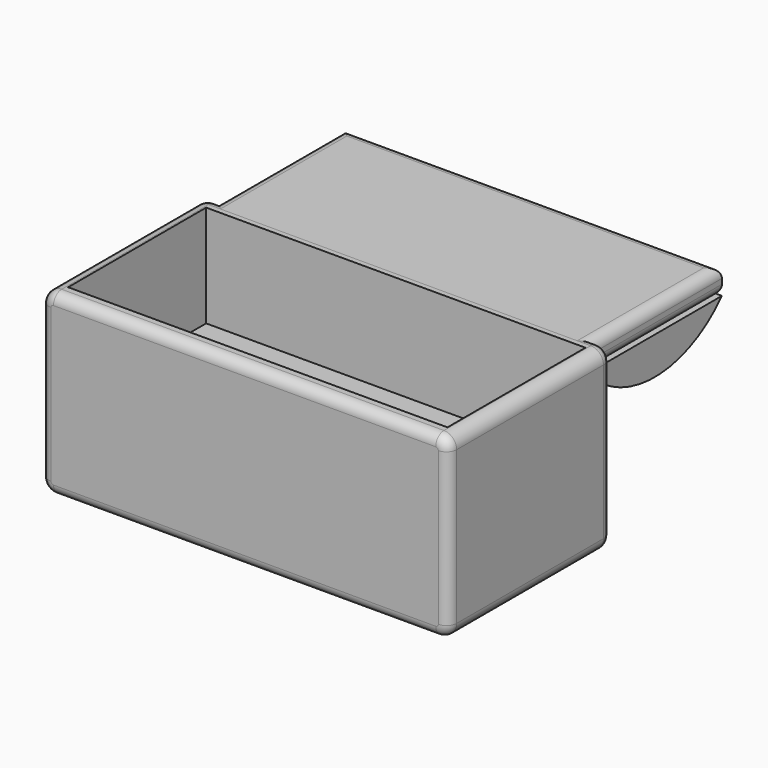
from build123d import *

# Parameters (mm, degrees)
F1_DEPTH = 101.6
F2_W     = 189.0404075384
F2_H     = 85.95798444
F3_DEPTH = 50.8
F4_R     = 5.08
F5_W     = 187.96
F5_H     = 83.7971559429
F6_DEPTH = 12.7
F8_DEPTH = 187.96
F9_R     = 5.08


with BuildPart() as f1:
    # F0 (on Front) → F1 (new body)
    with BuildSketch(Plane.XZ):
        with BuildLine():
            ThreePointArc((-84.6194562674, -32.7631937014), (-82.7595843279, -37.2533217619), (-78.2694562674, -39.1131937014))
            Line((-78.2694562674, -39.1131937014), (112.2305437326, -39.1131937014))
            ThreePointArc((112.2305437326, -39.1131937014), (116.7206717932, -37.2533217619), (118.5805437326, -32.7631937014))
            Line((118.5805437326, -32.7631937014), (118.5805437326, 43.4368062986))
            ThreePointArc((118.5805437326, 43.4368062986), (116.7206717932, 47.9269343592), (112.2305437326, 49.7868062986))
            Line((112.2305437326, 49.7868062986), (-78.2694562674, 49.7868062986))
            ThreePointArc((-78.2694562674, 49.7868062986), (-82.7595843279, 47.9269343592), (-84.6194562674, 43.4368062986))
            Line((-84.6194562674, 43.4368062986), (-84.6194562674, -32.7631937014))
        make_face()
    extrude(amount=-F1_DEPTH)

    # F2 (on face) → F3 (cut)
    with BuildSketch(Plane.XY.offset(49.7868062986)):
        with Locations((17.1484276652, 50.9781637229)):
            Rectangle(F2_W, F2_H)
    extrude(amount=-F3_DEPTH, mode=Mode.SUBTRACT)

    # F4
    f4_edges = [f1.edges().sort_by_distance(p)[0] for p in [
        (16.980544, 101.6, 49.786806),
        (16.980544, 0, 49.786806),
    ]]
    fillet(f4_edges, radius=F4_R)


with BuildPart() as f6:
    # F5 (on face) → F6 (new body)
    with BuildSketch(Plane.XY.offset(49.7868062986)):
        with Locations((16.608223896, 138.4185779715)):
            Rectangle(F5_W, F5_H)
    extrude(amount=-F6_DEPTH)

    # F9
    f9_edges = [f6.edges().sort_by_distance(p)[0] for p in [
        (-77.371776, 138.418578, 49.786806),
        (16.608224, 180.317156, 49.786806),
        (110.588224, 138.418578, 49.786806),
        (16.608224, 180.317156, 37.086806),
        (110.588224, 138.418578, 37.086806),
        (-77.371776, 138.418578, 37.086806),
    ]]
    fillet(f9_edges, radius=F9_R)


with BuildPart() as f8:
    # F7 (on face) → F8 (new body)
    with BuildSketch(Plane(origin=(-77.371776104, 0, 0), x_dir=(0, -1, 0), z_dir=(-1, 0, 0))):
        with BuildLine():
            Line((-96.52, 37.0868062986), (-180.3171559429, 37.0868062986))
            ThreePointArc((-180.3171559429, 37.0868062986), (-138.4185779715, 18.4105001305), (-96.52, 37.0868062986))
        make_face()
    extrude(amount=-F8_DEPTH)


solid = Compound([f1.part, f6.part, f8.part])
